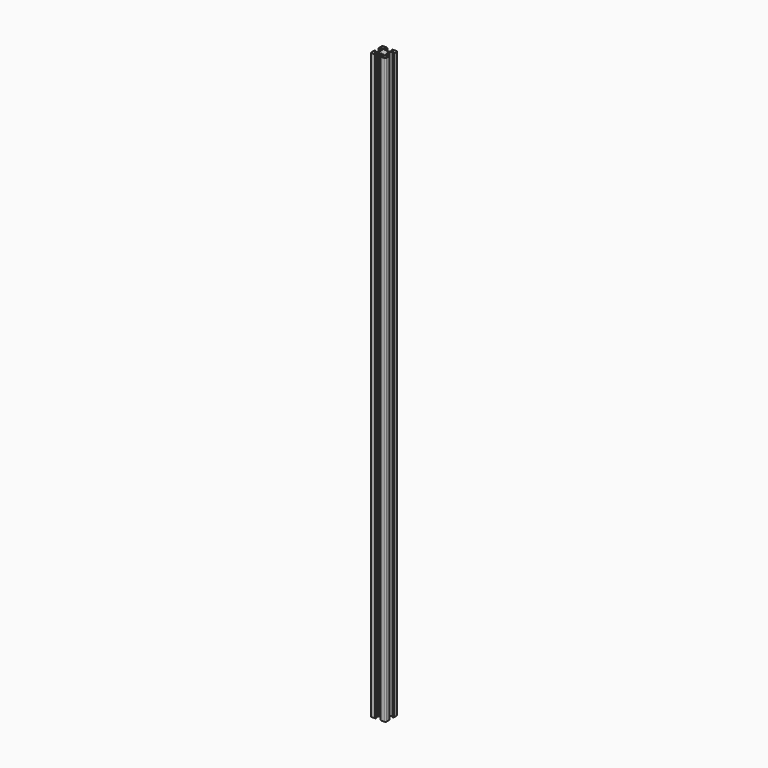
from build123d import *

# Parameters (mm, degrees)
PAD_DEPTH    = 767.5
POCKET_DEPTH = 767.501


with BuildPart() as pad:
    # Sketch → Pad (new body)
    with BuildSketch(Plane(origin=(1.5, 0, 0), x_dir=(1, 0, 0), z_dir=(0, 0, 1))):
        with BuildLine():
            Line((0, 20), (4.65, 20))
            ThreePointArc((4.85, 19.8), (4.791421, 19.941421), (4.65, 20))
            Line((4.85, 19.8), (4.85, 19.5))
            Line((4.85, 19.5), (5.2, 19.5))
            ThreePointArc((5.4, 19.3), (5.341421, 19.441421), (5.2, 19.5))
            Line((5.4, 19.3), (5.4, 19))
            ThreePointArc((4.9, 18.5), (5.253553, 18.646446), (5.4, 19))
            Line((4.9, 18.5), (2.999999, 18.5))
            ThreePointArc((2.999999, 18.5), (2.646446, 18.353553), (2.499999, 18))
            Line((2.499999, 18), (2.499999, 17.267767))
            ThreePointArc((2.499999, 17.267767), (2.53806, 17.076425), (2.646446, 16.914213))
            Line((2.646446, 16.914213), (4.914213, 14.646447))
            ThreePointArc((4.914213, 14.646447), (5.076424, 14.53806), (5.267766, 14.5))
            Line((5.267766, 14.5), (7.54641, 14.5))
            ThreePointArc((7.64641, 14.473205), (7.598173, 14.493185), (7.54641, 14.5))
            Line((7.64641, 14.473205), (8.4, 14.03812))
            ThreePointArc((8.4, 14.03812), (8.5, 14.011325), (8.6, 14.03812))
            Line((8.6, 14.03812), (9.35359, 14.473205))
            ThreePointArc((9.45359, 14.5), (9.401827, 14.493185), (9.35359, 14.473205))
            Line((9.45359, 14.5), (11.732234, 14.5))
            ThreePointArc((11.732234, 14.5), (11.923576, 14.53806), (12.085787, 14.646447))
            Line((12.085787, 14.646447), (14.353554, 16.914213))
            ThreePointArc((14.353554, 16.914213), (14.46194, 17.076425), (14.500001, 17.267767))
            Line((14.500001, 17.267767), (14.500001, 18))
            ThreePointArc((14.500001, 18), (14.353554, 18.353553), (14.000001, 18.5))
            Line((14.000001, 18.5), (12.1, 18.5))
            ThreePointArc((11.6, 19), (11.746447, 18.646446), (12.1, 18.5))
            Line((11.6, 19), (11.6, 19.3))
            ThreePointArc((11.8, 19.5), (11.658579, 19.441421), (11.6, 19.3))
            Line((11.8, 19.5), (12.15, 19.5))
            Line((12.15, 19.5), (12.15, 19.8))
            ThreePointArc((12.35, 20), (12.208579, 19.941421), (12.15, 19.8))
            Line((12.35, 20), (17, 20))
            ThreePointArc((18.5, 18.5), (18.06066, 19.56066), (17, 20))
            Line((18.5, 18.5), (18.5, 13.85))
            ThreePointArc((18.3, 13.65), (18.441421, 13.708578), (18.5, 13.85))
            Line((18.3, 13.65), (18, 13.65))
            Line((18, 13.65), (18, 13.3))
            ThreePointArc((17.8, 13.1), (17.941421, 13.158579), (18, 13.3))
            Line((17.8, 13.1), (17.5, 13.1))
            ThreePointArc((17, 13.6), (17.146446, 13.246447), (17.5, 13.1))
            Line((17, 13.6), (17, 15.5))
            ThreePointArc((17, 15.5), (16.853553, 15.853553), (16.5, 16))
            Line((16.5, 16), (15.767767, 16))
            ThreePointArc((15.767767, 16), (15.576425, 15.961939), (15.414213, 15.853553))
            Line((15.414213, 15.853553), (13.146446, 13.585786))
            ThreePointArc((13.146446, 13.585786), (13.03806, 13.423574), (13, 13.232233))
            Line((13, 13.232233), (13, 10.953589))
            ThreePointArc((12.973205, 10.853589), (12.993185, 10.901825), (13, 10.953589))
            Line((12.973205, 10.853589), (12.53812, 10.1))
            ThreePointArc((12.53812, 10.1), (12.511325, 10), (12.53812, 9.9))
            Line((12.53812, 9.9), (12.973205, 9.146411))
            ThreePointArc((13, 9.046411), (12.993185, 9.098175), (12.973205, 9.146411))
            Line((13, 9.046411), (13, 6.767767))
            ThreePointArc((13, 6.767767), (13.03806, 6.576426), (13.146446, 6.414214))
            Line((13.146446, 6.414214), (15.414213, 4.146447))
            ThreePointArc((15.414213, 4.146447), (15.576425, 4.038061), (15.767767, 4))
            Line((15.767767, 4), (16.5, 4))
            ThreePointArc((16.5, 4), (16.853553, 4.146447), (17, 4.5))
            Line((17, 4.5), (17, 6.4))
            ThreePointArc((17.5, 6.9), (17.146446, 6.753553), (17, 6.4))
            Line((17.5, 6.9), (17.8, 6.9))
            ThreePointArc((18, 6.7), (17.941421, 6.841421), (17.8, 6.9))
            Line((18, 6.7), (18, 6.35))
            Line((18, 6.35), (18.3, 6.35))
            ThreePointArc((18.5, 6.15), (18.441421, 6.291422), (18.3, 6.35))
            Line((18.5, 6.15), (18.5, 1.5))
            ThreePointArc((17, 0), (18.06066, 0.43934), (18.5, 1.5))
            Line((17, 0), (12.35, 0))
            ThreePointArc((12.15, 0.2), (12.208579, 0.058579), (12.35, 0))
            Line((12.15, 0.2), (12.15, 0.5))
            Line((12.15, 0.5), (11.8, 0.5))
            ThreePointArc((11.6, 0.7), (11.658579, 0.558579), (11.8, 0.5))
            Line((11.6, 0.7), (11.6, 1))
            ThreePointArc((12.1, 1.5), (11.746447, 1.353554), (11.6, 1))
            Line((12.1, 1.5), (14.000001, 1.5))
            ThreePointArc((14.000001, 1.5), (14.353554, 1.646447), (14.500001, 2))
            Line((14.500001, 2), (14.500001, 2.732233))
            ThreePointArc((14.500001, 2.732233), (14.46194, 2.923575), (14.353554, 3.085787))
            Line((14.353554, 3.085787), (12.085787, 5.353553))
            ThreePointArc((12.085787, 5.353553), (11.923576, 5.46194), (11.732234, 5.5))
            Line((11.732234, 5.5), (9.45359, 5.5))
            ThreePointArc((9.35359, 5.526795), (9.401827, 5.506815), (9.45359, 5.5))
            Line((9.35359, 5.526795), (8.6, 5.96188))
            ThreePointArc((8.6, 5.96188), (8.5, 5.988675), (8.4, 5.96188))
            Line((8.4, 5.96188), (7.64641, 5.526795))
            ThreePointArc((7.54641, 5.5), (7.598173, 5.506815), (7.64641, 5.526795))
            Line((7.54641, 5.5), (5.267766, 5.5))
            ThreePointArc((5.267766, 5.5), (5.076424, 5.46194), (4.914213, 5.353553))
            Line((4.914213, 5.353553), (2.646446, 3.085787))
            ThreePointArc((2.646446, 3.085787), (2.53806, 2.923575), (2.499999, 2.732233))
            Line((2.499999, 2.732233), (2.499999, 2))
            ThreePointArc((2.499999, 2), (2.646446, 1.646447), (2.999999, 1.5))
            Line((2.999999, 1.5), (4.9, 1.5))
            ThreePointArc((5.4, 1), (5.253553, 1.353554), (4.9, 1.5))
            Line((5.4, 1), (5.4, 0.7))
            ThreePointArc((5.2, 0.5), (5.341421, 0.558579), (5.4, 0.7))
            Line((5.2, 0.5), (4.85, 0.5))
            Line((4.85, 0.5), (4.85, 0.2))
            ThreePointArc((4.65, 0), (4.791421, 0.058579), (4.85, 0.2))
            Line((4.65, 0), (0, 0))
            ThreePointArc((-1.5, 1.5), (-1.06066, 0.43934), (0, 0))
            Line((-1.5, 1.5), (-1.5, 6.15))
            ThreePointArc((-1.3, 6.35), (-1.441421, 6.291422), (-1.5, 6.15))
            Line((-1.3, 6.35), (-1, 6.35))
            Line((-1, 6.35), (-1, 6.7))
            ThreePointArc((-0.8, 6.9), (-0.941421, 6.841421), (-1, 6.7))
            Line((-0.8, 6.9), (-0.5, 6.9))
            ThreePointArc((0, 6.4), (-0.146446, 6.753553), (-0.5, 6.9))
            Line((0, 6.4), (0, 4.5))
            ThreePointArc((0, 4.5), (0.146447, 4.146447), (0.5, 4))
            Line((0.5, 4), (1.232233, 4))
            ThreePointArc((1.232233, 4), (1.423575, 4.038061), (1.585787, 4.146447))
            Line((1.585787, 4.146447), (3.853554, 6.414214))
            ThreePointArc((3.853554, 6.414214), (3.96194, 6.576426), (4, 6.767767))
            Line((4, 6.767767), (4, 9.046411))
            ThreePointArc((4.026795, 9.146411), (4.006815, 9.098175), (4, 9.046411))
            Line((4.026795, 9.146411), (4.46188, 9.9))
            ThreePointArc((4.46188, 9.9), (4.488675, 10), (4.46188, 10.1))
            Line((4.46188, 10.1), (4.026795, 10.853589))
            ThreePointArc((4, 10.953589), (4.006815, 10.901825), (4.026795, 10.853589))
            Line((4, 10.953589), (4, 13.232233))
            ThreePointArc((4, 13.232233), (3.96194, 13.423574), (3.853554, 13.585786))
            Line((3.853554, 13.585786), (1.585787, 15.853553))
            ThreePointArc((1.585787, 15.853553), (1.423575, 15.961939), (1.232233, 16))
            Line((1.232233, 16), (0.5, 16))
            ThreePointArc((0.5, 16), (0.146447, 15.853553), (0, 15.5))
            Line((0, 15.5), (0, 13.6))
            ThreePointArc((-0.5, 13.1), (-0.146446, 13.246447), (0, 13.6))
            Line((-0.5, 13.1), (-0.8, 13.1))
            ThreePointArc((-1, 13.3), (-0.941421, 13.158579), (-0.8, 13.1))
            Line((-1, 13.3), (-1, 13.65))
            Line((-1, 13.65), (-1.3, 13.65))
            ThreePointArc((-1.5, 13.85), (-1.441421, 13.708578), (-1.3, 13.65))
            Line((-1.5, 13.85), (-1.5, 18.5))
            ThreePointArc((0, 20), (-1.06066, 19.56066), (-1.5, 18.5))
        make_face()
    extrude(amount=PAD_DEPTH)


with BuildPart() as pocket:
    # Pocket base: copy of Pad
    add(pad.part)

    # Sketch001 → Pocket (cut, through all)
    with BuildSketch(Plane(origin=(1.5, 0, 767.5), x_dir=(1, 0, 0), z_dir=(0, 0, 1))):
        with BuildLine():
            ThreePointArc((6.586105, 12.989641), (5.988263, 12.50841), (5.507825, 11.909931))
            Line((6.054705, 11.258185), (5.507825, 11.909931))
            ThreePointArc((6.054705, 11.258185), (5.75, 10), (6.054705, 8.741815))
            Line((5.507825, 8.090069), (6.054705, 8.741815))
            ThreePointArc((5.507825, 8.090069), (5.988263, 7.49159), (6.586105, 7.010359))
            Line((7.241815, 7.554705), (6.586105, 7.010359))
            ThreePointArc((7.241815, 7.554705), (8.5, 7.25), (9.758185, 7.554705))
            Line((10.413895, 7.010359), (9.758185, 7.554705))
            ThreePointArc((10.413895, 7.010359), (11.011737, 7.49159), (11.492175, 8.090069))
            Line((10.945295, 8.741815), (11.492175, 8.090069))
            ThreePointArc((10.945295, 8.741815), (11.25, 10), (10.945295, 11.258185))
            Line((11.492175, 11.909931), (10.945295, 11.258185))
            ThreePointArc((11.492175, 11.909931), (11.011737, 12.50841), (10.413895, 12.989641))
            Line((9.758185, 12.445295), (10.413895, 12.989641))
            ThreePointArc((9.758185, 12.445295), (8.5, 12.75), (7.241815, 12.445295))
            Line((6.586105, 12.989641), (7.241815, 12.445295))
        make_face()
    extrude(amount=-POCKET_DEPTH, mode=Mode.SUBTRACT)


with BuildPart() as fusion:
    # Fusion base: copy of Pad
    add(pad.part)

    # Fusion: union Pocket
    add(pocket.part)


solid = fusion.part
